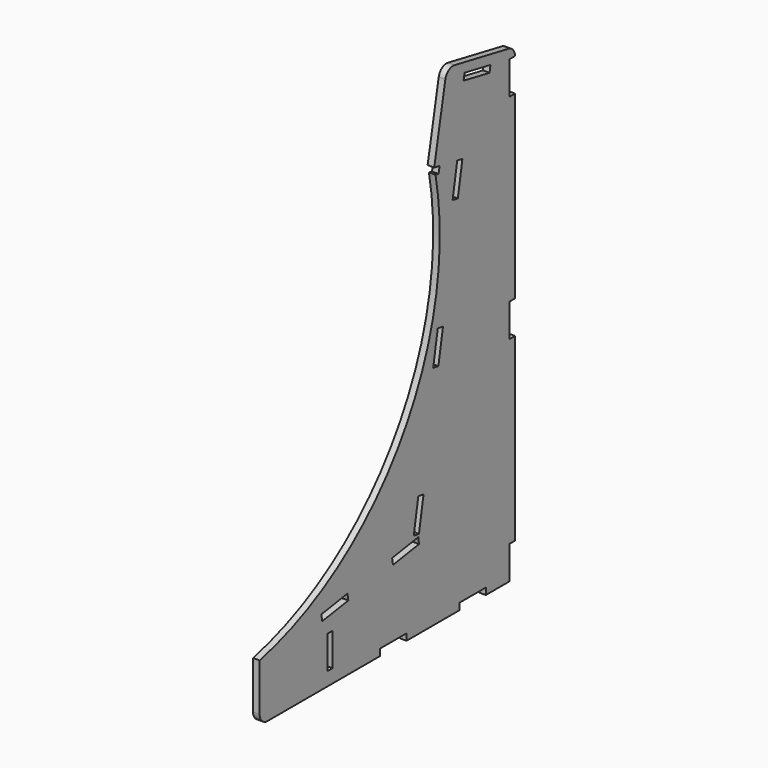
from build123d import *

# Parameters (mm, degrees)
PAD_DEPTH       = 10
SKETCH001_W     = 10
SKETCH001_H     = 50
SKETCH001_W_2   = 50
SKETCH001_H_2   = 10
POCKET_DEPTH    = 10.001
POCKET001_DEPTH = 10.001


with BuildPart() as part:
    # Sketch → Pad (new body)
    with BuildSketch(Plane.YZ):
        with BuildLine():
            Line((0, 0), (458.57, 0))
            Line((458.57, 50), (458.57, 0))
            Line((468.57, 50), (458.57, 50))
            Line((468.57, 323.200359), (468.57, 50))
            Line((458.57, 323.200359), (468.57, 323.200359))
            Line((458.57, 373.200359), (458.57, 323.200359))
            Line((468.57, 373.200359), (458.57, 373.200359))
            Line((468.57, 646.400718), (468.57, 373.200359))
            Line((458.57, 646.400718), (468.57, 646.400718))
            Line((458.57, 696.400718), (458.57, 646.400718))
            Line((468.57, 696.400718), (458.57, 696.400718))
            ThreePointArc((468.57, 696.400718), (465.136205, 705.951787), (456.406946, 711.13))
            Line((456.406946, 711.13), (354.229363, 730.81))
            ThreePointArc((354.229363, 730.81), (342.983266, 728.501917), (336.663136, 718.917664))
            Line((336.663136, 718.917664), (315.777541, 610.480692))
            ThreePointArc((-15, 86.92), (258.192075, 280.591887), (315.777541, 610.480692))
            Line((-15, 15), (-15, 86.92))
            ThreePointArc((-15, 15), (-10.606602, 4.393398), (0, 0))
        make_face()
    extrude(amount=PAD_DEPTH)

    # Sketch001 → Pocket (cut, through all)
    with BuildSketch(Plane.YZ.offset(10)):
        Polygon((276.869428, 134.731244), (285.551837, 183.971631), (295.399915, 182.235149), (286.717506, 132.994762), align=None)
        Polygon((313.682842, 343.510487), (322.365251, 392.750875), (332.213328, 391.014393), (323.530919, 341.774005), align=None)
        Polygon((359.178664, 601.530119), (350.496255, 552.289731), (360.344333, 550.553249), (369.026742, 599.793637), align=None)
        Polygon((101.965072, 100.867809), (151.379199, 108.499589), (152.905555, 98.616763), (103.491428, 90.984984), align=None)
        Polygon((235.976184, 121.565195), (285.390311, 129.196975), (286.916667, 119.31415), (237.50254, 111.68237), align=None)
        with Locations((118.247, 45.35)):
            Rectangle(SKETCH001_W, SKETCH001_H)
        with Locations((238.247, 5)):
            Rectangle(SKETCH001_W_2, SKETCH001_H_2)
        with Locations((388.247, 5)):
            Rectangle(SKETCH001_W_2, SKETCH001_H_2)
    extrude(amount=-POCKET_DEPTH, mode=Mode.SUBTRACT)

    # Sketch002 → Pocket001 (cut, through all)
    with BuildSketch(Plane.YZ.offset(10)):
        Polygon((422.310473, 703.463594), (373.212868, 712.92008), (371.321571, 703.100559), (420.419176, 693.644073), align=None)
        Polygon((315.96561, 609.813), (325.785131, 607.921703), (323.893833, 598.102182), (314.074312, 599.993479), align=None)
    extrude(amount=-POCKET001_DEPTH, mode=Mode.SUBTRACT)


solid = part.part
